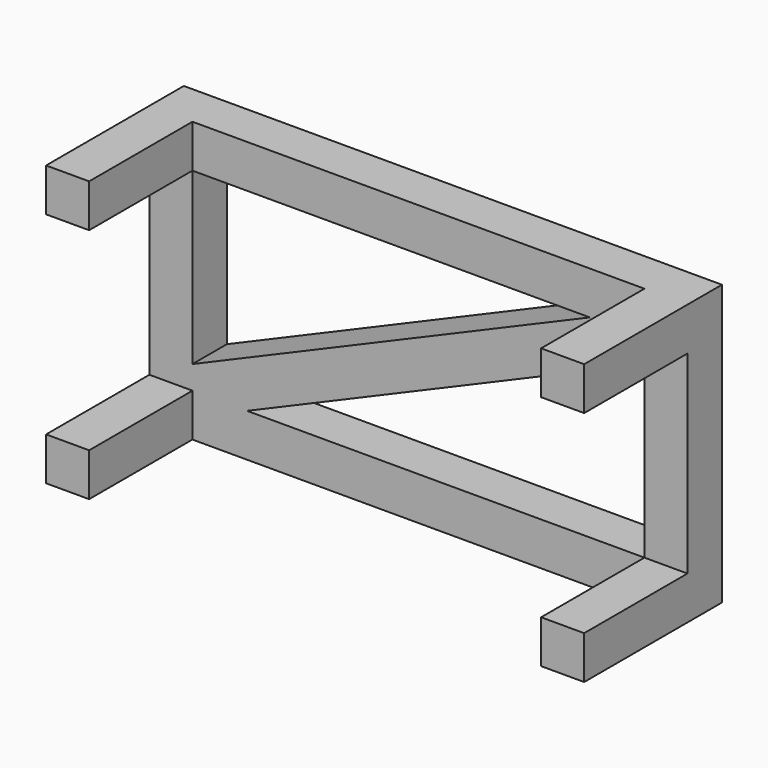
from build123d import *

# Parameters (mm, degrees)
F0_W      = 1270
F0_H      = 660.4
F1_DEPTH  = 101.6
F2_W      = 101.6
F2_H      = 101.6
F3_DEPTH  = 304.8
F4_W      = 101.6
F4_H      = 101.6
F5_DEPTH  = 304.8
F6_DEPTH  = 304.8
F8_W      = 101.6
F8_H      = 101.6
F9_DEPTH  = 304.8
F7_W      = 101.6
F7_H      = 101.6
F10_DEPTH = 304.8


with BuildPart() as f1:
    # F0 (on Front) → F1 (new body)
    with BuildSketch(Plane.XZ):
        Rectangle(F0_W, F0_H)
        Polygon((533.4, 173.331247), (533.4, -228.6), (-404.439575, -228.6), (-533.4, -228.6), (-533.4, -173.331247), (-533.4, 228.6), (404.439575, 228.6), (533.4, 228.6), align=None, mode=Mode.SUBTRACT)
        Polygon((-533.4, -228.6), (-404.439575, -228.6), (533.4, 173.331247), (533.4, 228.6), (404.439575, 228.6), (-533.4, -173.331247), align=None)
    extrude(amount=F1_DEPTH)

    # F2 (on face) → F3 (join)
    with BuildSketch(Plane.XZ.offset(101.6)):
        with Locations((-584.2, 279.4)):
            Rectangle(F2_W, F2_H)
    extrude(amount=F3_DEPTH)

    # F4 (on face) → F5 (join)
    with BuildSketch(Plane.XZ.offset(101.6)):
        with Locations((-584.2, -279.4)):
            Rectangle(F4_W, F4_H)
    extrude(amount=F5_DEPTH)

    # F4 (on face) → F6 (join)
    with BuildSketch(Plane.XZ.offset(101.6)):
        with Locations((-584.2, -279.4)):
            Rectangle(F4_W, F4_H)
    extrude(amount=F6_DEPTH)

    # F8 (on face) → F9 (join)
    with BuildSketch(Plane.XZ.offset(101.6)):
        with Locations((584.2, 279.4)):
            Rectangle(F8_W, F8_H)
    extrude(amount=F9_DEPTH)

    # F7 (on face) → F10 (join)
    with BuildSketch(Plane.XZ.offset(101.6)):
        with Locations((584.2, -279.4)):
            Rectangle(F7_W, F7_H)
    extrude(amount=F10_DEPTH)


solid = f1.part
